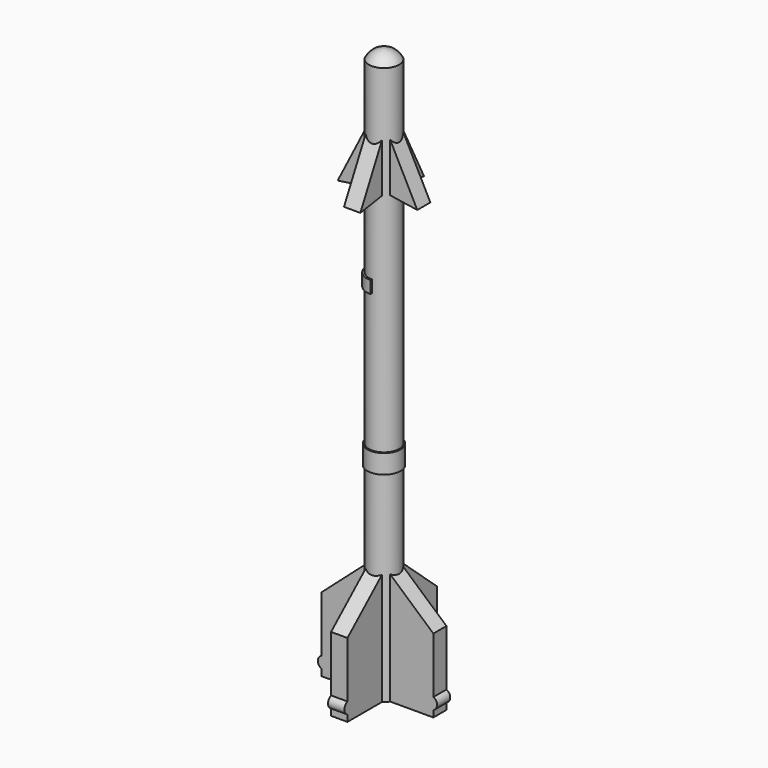
from build123d import *

# Parameters (mm, degrees)
F3_DEPTH      = 0.3
F4_COUNT      = 4
F5_W          = 0.625
F5_H          = 0.451389
F6_ANGLE_BACK = 90
F6_ANGLE      = 180


with BuildPart() as f1:
    # F0 (on Front) → F1 (revolve)
    with BuildSketch(Plane.XZ):
        with BuildLine():
            Line((0, 20.798611), (0, 0))
            Line((0, 0), (0.555556, 0))
            Line((0.555556, 0), (0.555556, 7.361111))
            Line((0.555556, 7.361111), (0.607639, 7.361111))
            Line((0.607639, 7.361111), (0.607639, 8.055556))
            Line((0.607639, 8.055556), (0.555556, 8.055556))
            Line((0.555556, 8.055556), (0.555556, 20.451389))
            ThreePointArc((0.555556, 20.451389), (0.327569, 20.704666), (0, 20.798611))
        make_face()
    revolve(axis=Axis((0, 0, 10.399306), (0, 0, -1)))

    # F2 (on Front) → F3 (join, symmetric)
    with BuildSketch(Plane.XZ):
        with BuildLine():
            Line((0, 0), (2.048611, 0))
            Line((2.048611, 0), (2.048611, 0.243056))
            ThreePointArc((2.048611, 0.243056), (2.1875, 0.451389), (2.048611, 0.659722))
            Line((2.048611, 0.659722), (2.048611, 2.708333))
            Line((2.048611, 2.708333), (0.4, 4.165245))
            Line((0.4, 4.165245), (0.4, 16.343376))
            Line((0.4, 16.343376), (1.458333, 16.180556))
            Line((1.458333, 16.180556), (0, 19.041132))
            Line((0, 19.041132), (0, 0))
        make_face()
    extrude(amount=F3_DEPTH, both=True)

    # F4: F1 ×4 about axis
    f4_axis = Axis((0, 0, 8.055556), (0, 0, 1))


with BuildPart() as f1_1:
    add(f1.part)
    for i in range(1, F4_COUNT):
        add(f1.part.rotate(f4_axis, i * 360 / F4_COUNT))

    # F5 (on Front) → F6 (revolve)
    with BuildSketch(Plane.XZ, mode=Mode.PRIVATE) as f6_sk:
        with Locations((-0.3125, 13.350694)):
            Rectangle(F5_W, F5_H)
    revolve(f6_sk.sketch.rotate(Axis((0, 0, 8.055556), (0, 0, 1)), -F6_ANGLE_BACK), axis=Axis((0, 0, 8.055556), (0, 0, 1)), revolution_arc=F6_ANGLE)


solid = f1_1.part
